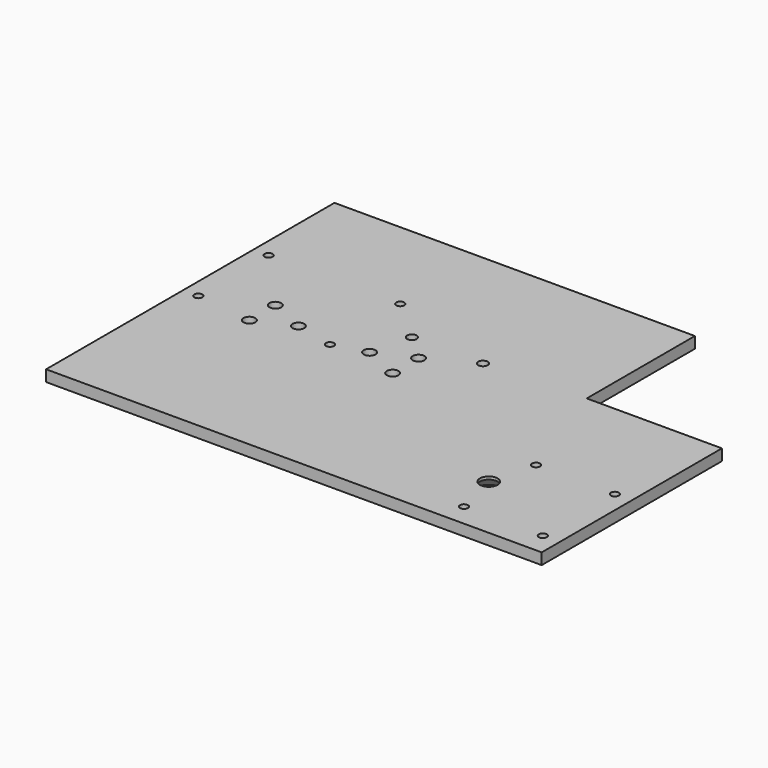
from build123d import *

# Parameters (mm, degrees)
F0_W            = 139.7
F0_H            = 3.175
F1_DEPTH        = 50.8
F3_D            = 3.3
F4_W            = 38.1
F4_H            = 38.1
F5_DEPTH        = 3.176
F7_D            = 2.2606
F9_D            = 2.7051
F11_D           = 2.2606
F13_D           = 4.9784
F13_CSINK_D     = 9.1186
F13_CSINK_ANGLE = 82


with BuildPart() as f1:
    # F0 (on Front) → F1 (new body, symmetric)
    with BuildSketch(Plane.XZ):
        with Locations((-69.85, 1.5875)):
            Rectangle(F0_W, F0_H)
    extrude(amount=F1_DEPTH, both=True)

    # F3 (through all)
    with Locations(Plane.XY.offset(3.175)):
        with Locations((-78.994, 4.572), (-78.994, -4.572), (-89.154, 0), (-109.22, 0), (-119.38, 4.572), (-119.38, -4.572)):
            Hole(F3_D / 2)

    # F4 (on face) → F5 (cut, through all)
    with BuildSketch(Plane.XY.offset(3.175)):
        with Locations((-19.05, 31.75)):
            Rectangle(F4_W, F4_H)
    extrude(amount=-F5_DEPTH, mode=Mode.SUBTRACT)

    # F7 (through all)
    with Locations(Plane.XY.offset(3.175)):
        with Locations((-26.9875, -44.45), (-26.9875, -19.05), (-4.7625, -19.05), (-4.7625, -44.45)):
            Hole(F7_D / 2)

    # F9 (through all)
    with Locations(Plane.XY.offset(3.175)):
        with Locations((-86.36, 11.43), (-66.36, 11.43)):
            Hole(F9_D / 2)

    # F11 (through all)
    with Locations(Plane.XY.offset(3.175)):
        with Locations((-135.382, -2.54), (-98.298, -2.54), (-98.298, 22.225), (-135.382, 22.225)):
            Hole(F11_D / 2)

    # F13 (through all)
    with Locations(Plane(origin=(0, 0, 0), x_dir=(1, 0, 0), z_dir=(0, 0, -1))):
        with Locations((-30.1625, 31.75)):
            CounterSinkHole(F13_D / 2, F13_CSINK_D / 2, counter_sink_angle=F13_CSINK_ANGLE)


solid = f1.part
